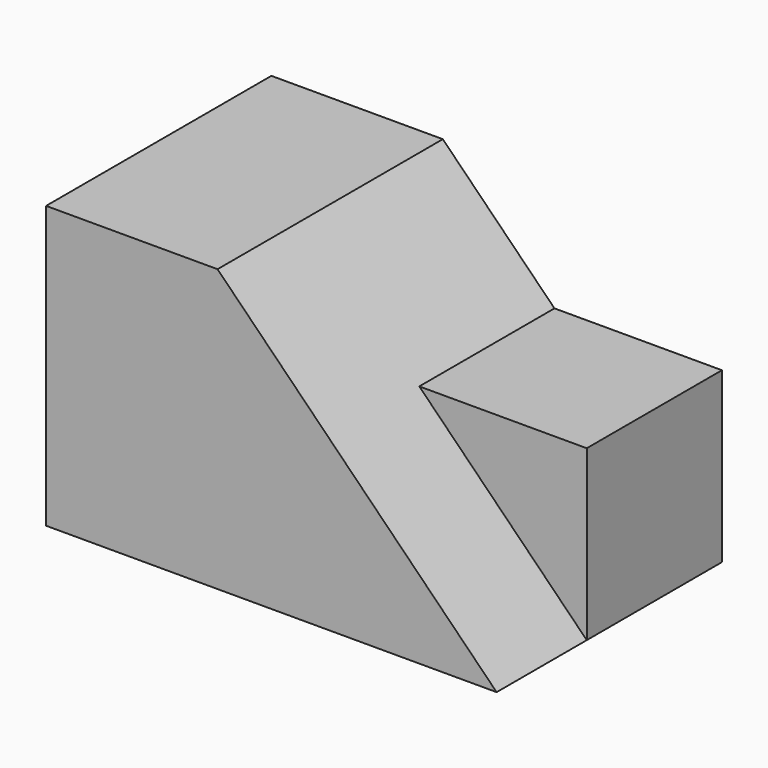
from build123d import *

# Parameters (mm, degrees)
F0_W     = 50.8
F0_H     = 31.75
F1_DEPTH = 31.75
F3_DEPTH = 38.1
F5_DEPTH = 19.05


with BuildPart() as f1:
    # F0 (on Front) → F1 (new body)
    with BuildSketch(Plane.XZ):
        with Locations((-25.4, 15.875)):
            Rectangle(F0_W, F0_H)
    extrude(amount=F1_DEPTH)

    # F2 (on Front) → F3 (cut)
    with BuildSketch(Plane.XZ):
        Polygon((0, 32.202605), (-31.635158, 31.918883), (0, 0), align=None)
    extrude(amount=F3_DEPTH, mode=Mode.SUBTRACT)

    # F4 (on Front) → F5 (join)
    with BuildSketch(Plane.XZ):
        Polygon((-19.05, 19.05), (0, 0), (0, 19.05), align=None)
    extrude(amount=F5_DEPTH)


solid = f1.part
